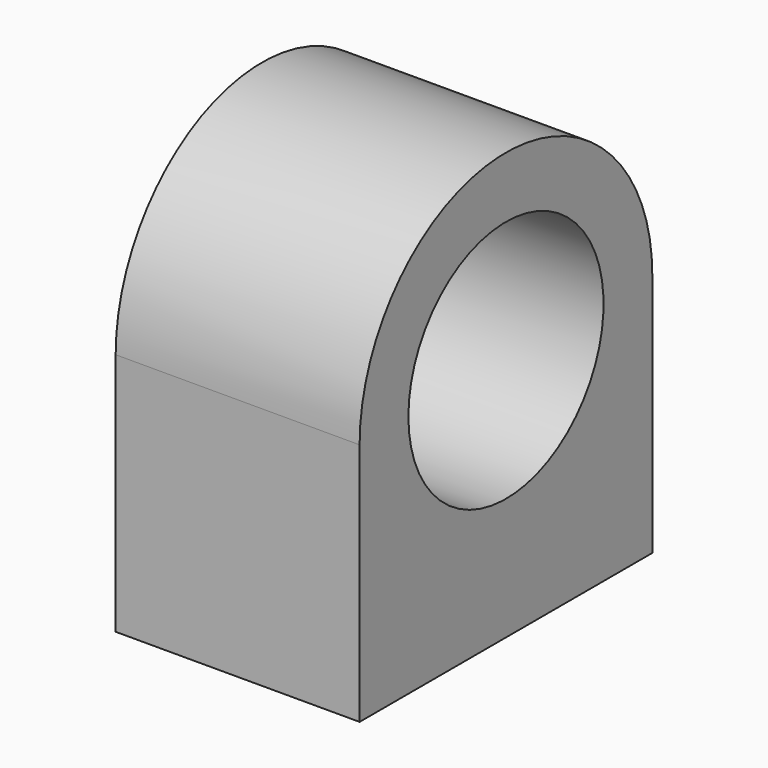
from build123d import *

# Parameters (mm, degrees)
F1_DEPTH = 25.4
F2_R     = 3.175
F3_DEPTH = 12.7


with BuildPart() as f1:
    # F0 (on Right) → F1 (new body)
    with BuildSketch(Plane.YZ):
        with BuildLine():
            Line((19.05, 0), (12.7, 0))
            ThreePointArc((12.7, 0), (0, -12.7), (-12.7, 0))
            Line((-12.7, 0), (-19.05, 0))
            ThreePointArc((-19.05, 0), (0, -19.05), (19.05, 0))
        make_face()
        with BuildLine():
            ThreePointArc((-12.7, 0), (0, 12.7), (12.7, 0))
            Line((12.7, 0), (19.05, 0))
            ThreePointArc((19.05, 0), (0, 19.05), (-19.05, 0))
            Line((-19.05, 0), (-12.7, 0))
        make_face()
        with BuildLine():
            Line((19.05, -25.4), (19.05, 0))
            ThreePointArc((19.05, 0), (0, -19.05), (-19.05, 0))
            Line((-19.05, 0), (-19.05, -25.4))
            Line((-19.05, -25.4), (19.05, -25.4))
        make_face()
    extrude(amount=F1_DEPTH)

    # F2 (on face) → F3 (cut)
    with BuildSketch(Plane(origin=(0, 0, -25.4), x_dir=(1, 0, 0), z_dir=(0, 0, -1))):
        with Locations((12.7, 12.7)):
            Circle(F2_R)
        with Locations((12.7, -12.7)):
            Circle(F2_R)
    extrude(amount=-F3_DEPTH, mode=Mode.SUBTRACT)


solid = f1.part
